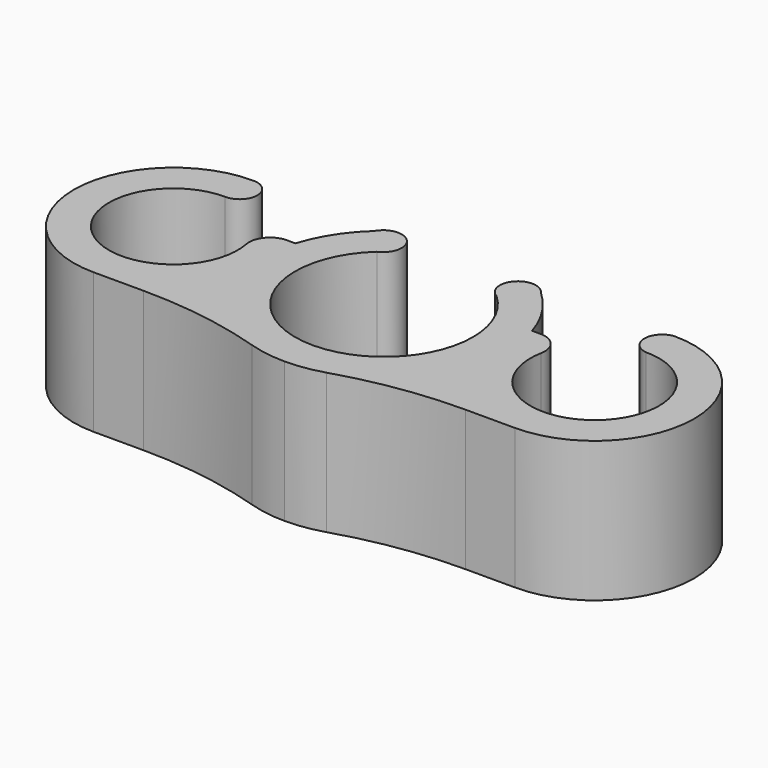
from build123d import *

# Parameters (mm, degrees)
F1_DEPTH = 12
F2_R     = 35.487136
F3_R     = 1.788944


with BuildPart() as f1:
    # F0 (on Top) → F1 (new body)
    with BuildSketch(Plane.XY):
        with BuildLine():
            Line((0, -7.6), (0, -10.6))
            ThreePointArc((0, -10.6), (3.336165, -10.061312), (6.333246, -8.5))
            Line((6.333246, -8.5), (18, -8.5))
            ThreePointArc((18, -8.5), (26.5, 0), (18, 8.5))
            Line((18, 8.5), (18, 5.5))
            ThreePointArc((18, 5.5), (20.530042, -4.883532), (13.507076, 3.172323))
            Line((13.507076, 3.172323), (10.114167, 3.172323))
            ThreePointArc((10.114167, 3.172323), (8.93073, 5.709821), (7.124192, 7.848942))
            ThreePointArc((7.124192, 7.848942), (4.718849, 8.006432), (5.107912, 5.627543))
            ThreePointArc((5.107912, 5.627543), (7.586173, 0.45824), (5.748161, -4.971785))
            ThreePointArc((5.748161, -4.971785), (3.160256, -6.911786), (0, -7.6))
        make_face()
        with BuildLine():
            Line((18, 5.5), (18, 8.5))
            ThreePointArc((18, 8.5), (16.655563, 7), (18, 5.5))
        make_face()
        with BuildLine():
            ThreePointArc((-6.333246, -8.5), (-3.336165, -10.061312), (0, -10.6))
            Line((0, -10.6), (0, -7.6))
            ThreePointArc((0, -7.6), (-7.089758, -2.737761), (-5.107912, 5.627543))
            ThreePointArc((-5.107912, 5.627543), (-4.563236, 8.147676), (-7.124192, 7.848942))
            ThreePointArc((-7.124192, 7.848942), (-8.93073, 5.709821), (-10.114167, 3.172323))
            Line((-10.114167, 3.172323), (-13.507076, 3.172323))
            ThreePointArc((-13.507076, 3.172323), (-20.530042, -4.883532), (-18, 5.5))
            Line((-18, 5.5), (-18, 8.5))
            ThreePointArc((-18, 8.5), (-26.5, 0), (-18, -8.5))
            Line((-18, -8.5), (-6.333246, -8.5))
        make_face()
        with BuildLine():
            ThreePointArc((-18, 5.5), (-16.428817, 7), (-18, 8.5))
            Line((-18, 8.5), (-18, 5.5))
        make_face()
    extrude(amount=F1_DEPTH)

    # F2
    f2_edges = [f1.edges().sort_by_distance(p)[0] for p in [
        (-6.333246, -8.5, 6),
        (6.333246, -8.5, 6),
    ]]
    fillet(f2_edges, radius=F2_R)

    # F3
    f3_edges = [f1.edges().sort_by_distance(p)[0] for p in [
        (-13.507076, 3.172323, 6),
        (13.507076, 3.172323, 6),
    ]]
    fillet(f3_edges, radius=F3_R)


solid = f1.part
